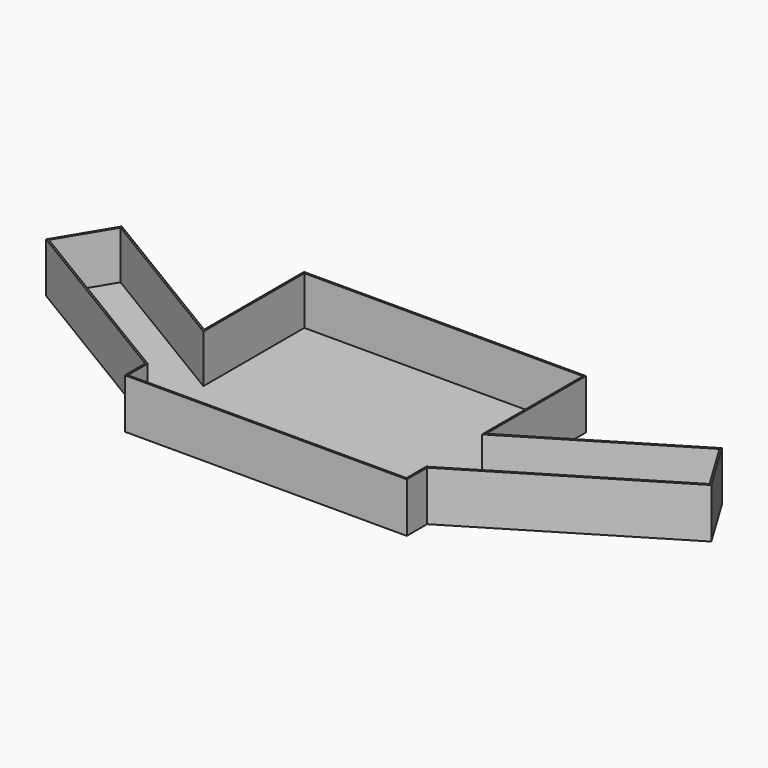
from build123d import *

# Parameters (mm, degrees)
F1_DEPTH = 30
F2_T     = -1


with BuildPart() as f1:
    # F0 (on Top) → F1 (new body)
    with BuildSketch(Plane.XY):
        Polygon((62.6864729471, -8.4317315359), (62.6864729471, 66.8668336705), (-107.3135270529, 66.8668336705), (-107.3135270529, 45.8668336705), (-107.3135270529, -8.4317315359), (-107.3135270529, -52.8148650094), (-107.3135270529, -68.1331663295), (62.6864729471, -68.1331663295), (62.6864729471, -52.8148650094), align=None)
        Polygon((158.6372393407, 49.4712554003), (62.6864729471, -8.4317315359), (62.6864729471, -52.8148650094), (178.2709213291, 16.9363736336), align=None)
        Polygon((-107.3135270529, -52.8148650094), (-107.3135270529, -8.4317315359), (-203.2642934464, 49.4712554003), (-222.8979754349, 16.9363736336), align=None)
    extrude(amount=F1_DEPTH)

    # F2
    f2_openings = [f1.faces().sort_by_distance(p)[0] for p in [
        (-22.313527, -0.247476, 30),
    ]]
    offset(amount=F2_T, openings=f2_openings, kind=Kind.INTERSECTION)


solid = f1.part
